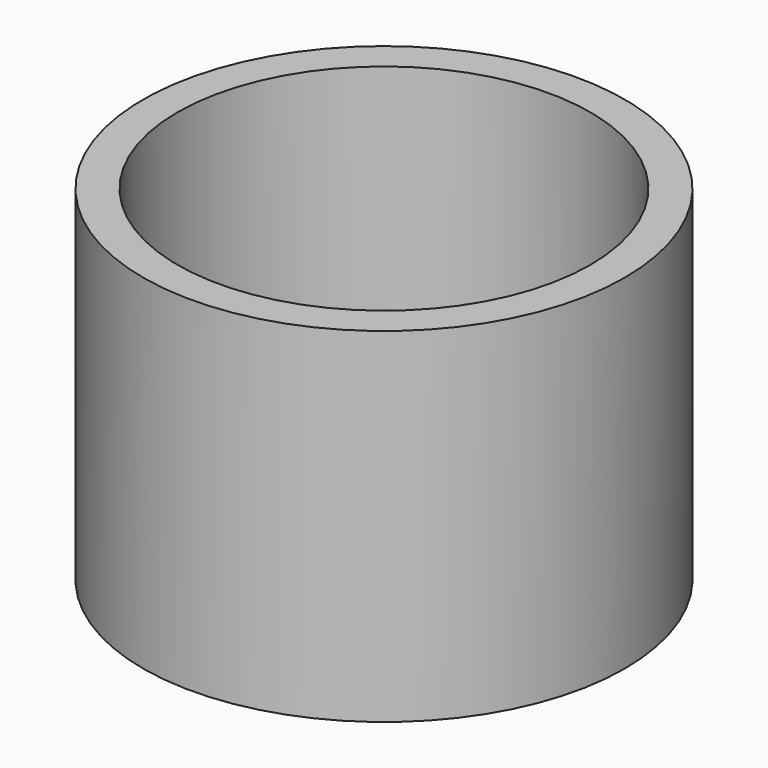
from build123d import *

# Parameters (mm, degrees)
F0_R     = 700
F1_DEPTH = 50
F2_R     = 700
F2_R_2   = 600
F3_DEPTH = 1000


with BuildPart() as f1:
    # F0 (on Top) → F1 (new body, symmetric)
    with BuildSketch(Plane.XY):
        Circle(F0_R)
    extrude(amount=F1_DEPTH, both=True)

    # F2 (on face) → F3 (join)
    with BuildSketch(Plane(origin=(0, 0, -50), x_dir=(1, 0, 0), z_dir=(0, 0, -1))):
        Circle(F2_R)
        Circle(F2_R_2, mode=Mode.SUBTRACT)
    extrude(amount=-F3_DEPTH)


solid = f1.part
